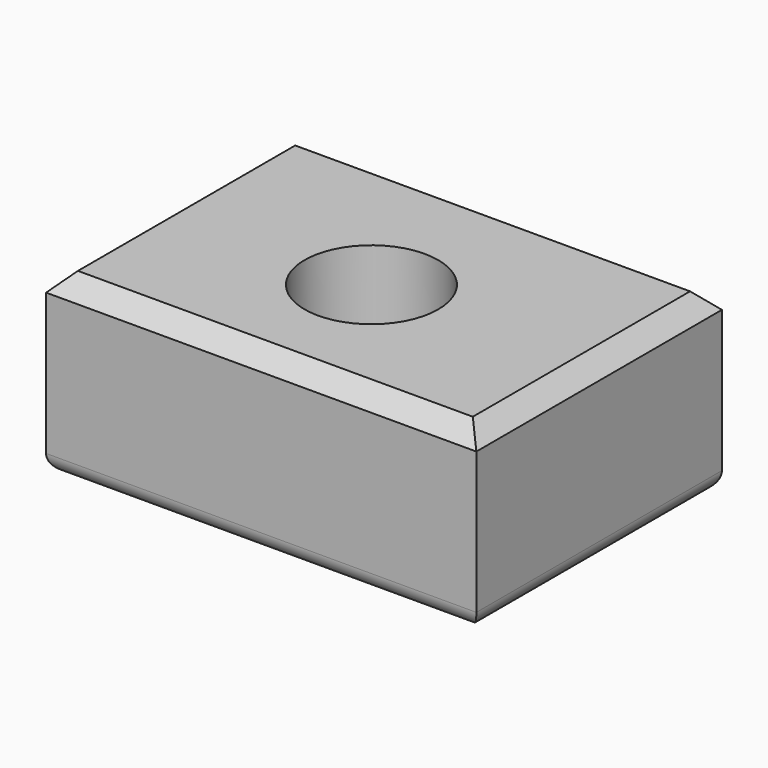
from build123d import *

# Parameters (mm, degrees)
F0_W     = 121.572584
F0_H     = 86.733874
F1_DEPTH = 50
F2_R     = 18.878817
F3_DEPTH = 50
F4_SIZE  = 5
F5_R     = 5


with BuildPart() as f1:
    # F0 (on Top) → F1 (new body)
    with BuildSketch(Plane.XY):
        with Locations((1.088709, 3.084676)):
            Rectangle(F0_W, F0_H)
    extrude(amount=F1_DEPTH)

    # F2 (on face) → F3 (cut)
    with BuildSketch(Plane.XY.offset(50)):
        Circle(F2_R)
    extrude(amount=-F3_DEPTH, mode=Mode.SUBTRACT)

    # F4
    f4_edges = [f1.edges().sort_by_distance(p)[0] for p in [
        (1.088709, -40.282261, 50),
        (61.875001, 3.084676, 50),
        (1.088709, 46.451613, 50),
        (-59.697583, 3.084676, 50),
    ]]
    chamfer(f4_edges, length=F4_SIZE)

    # F5
    f5_edges = [f1.edges().sort_by_distance(p)[0] for p in [
        (61.875001, 3.084676, 0),
        (1.088709, -40.282261, 0),
        (-59.697583, 3.084676, 0),
        (1.088709, 46.451613, 0),
    ]]
    fillet(f5_edges, radius=F5_R)


solid = f1.part
